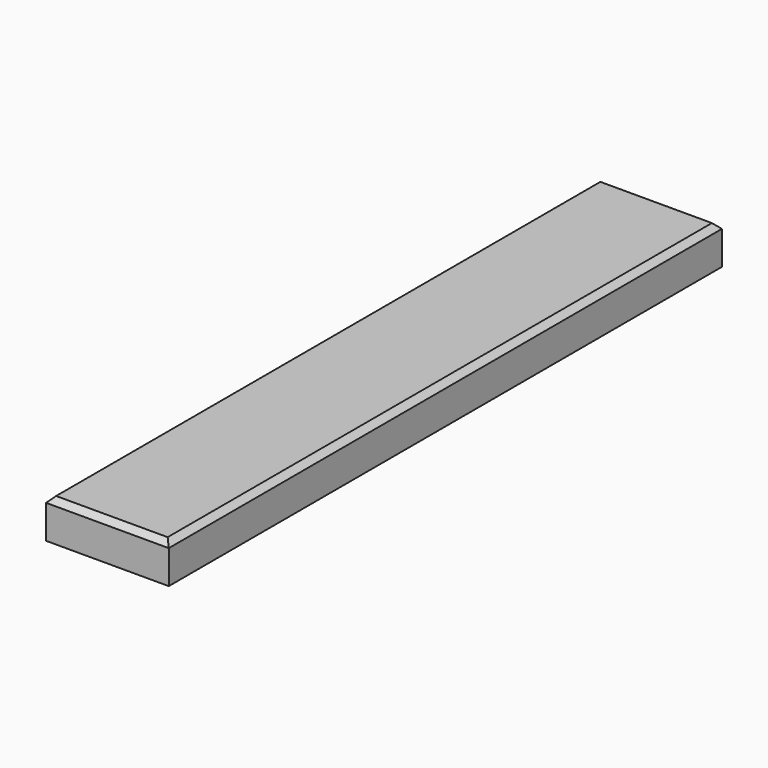
from build123d import *

# Parameters (mm, degrees)
F1_W     = 110
F1_H     = 620
F2_DEPTH = 35
F3_SIZE  = 5


with BuildPart() as f2:
    # F1 (on Top) → F2 (new body)
    with BuildSketch(Plane.XY):
        Rectangle(F1_W, F1_H)
    extrude(amount=-F2_DEPTH)

    # F3
    f3_edges = [f2.edges().sort_by_distance(p)[0] for p in [
        (-55, 0, 0),
        (0, -310, 0),
        (55, 0, 0),
        (0, 310, 0),
    ]]
    chamfer(f3_edges, length=F3_SIZE)


solid = f2.part
